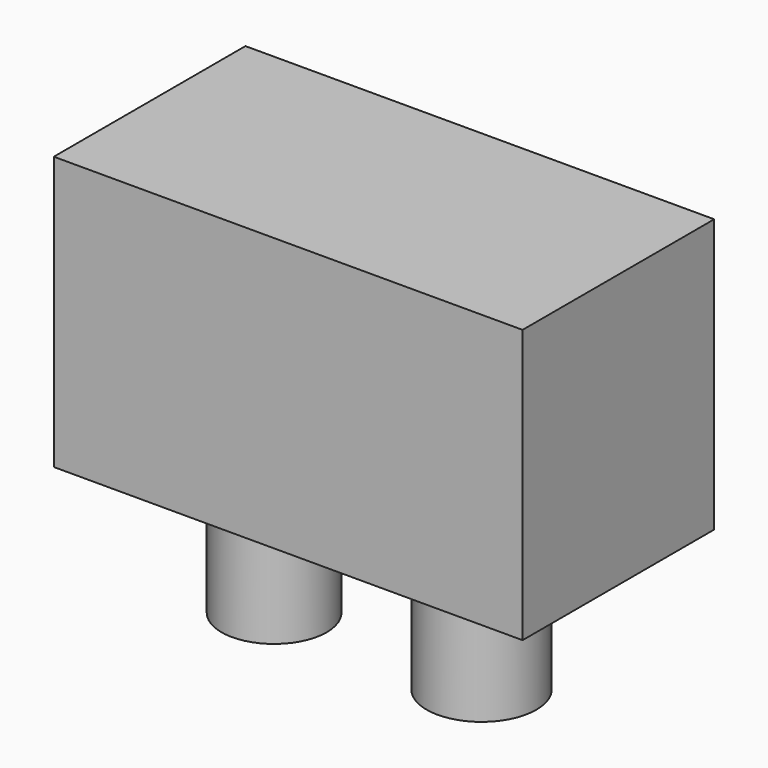
from build123d import *

# Parameters (mm, degrees)
F0_W     = 43.583162
F0_H     = 22.271713
F0_R     = 4.890378
F0_R_2   = 5.100504
F1_DEPTH = 25.4
F2_DEPTH = 12.7


with BuildPart() as f1:
    # F0 (on Top) → F1 (new body)
    with BuildSketch(Plane.XY):
        with Locations((-21.791581, 11.135856)):
            Rectangle(F0_W, F0_H)
        with Locations((-32.008924, 11.135857)):
            Circle(F0_R, mode=Mode.SUBTRACT)
        with Locations((-12.724511, 11.135857)):
            Circle(F0_R_2, mode=Mode.SUBTRACT)
        with Locations((-32.008924, 11.135857)):
            Circle(F0_R)
        with Locations((-12.724511, 11.135857)):
            Circle(F0_R_2)
    extrude(amount=F1_DEPTH)

    # F0 (on Top) → F2 (join)
    with BuildSketch(Plane.XY):
        with Locations((-32.008924, 11.135857)):
            Circle(F0_R)
        with Locations((-12.724511, 11.135857)):
            Circle(F0_R_2)
    extrude(amount=-F2_DEPTH)


solid = f1.part
